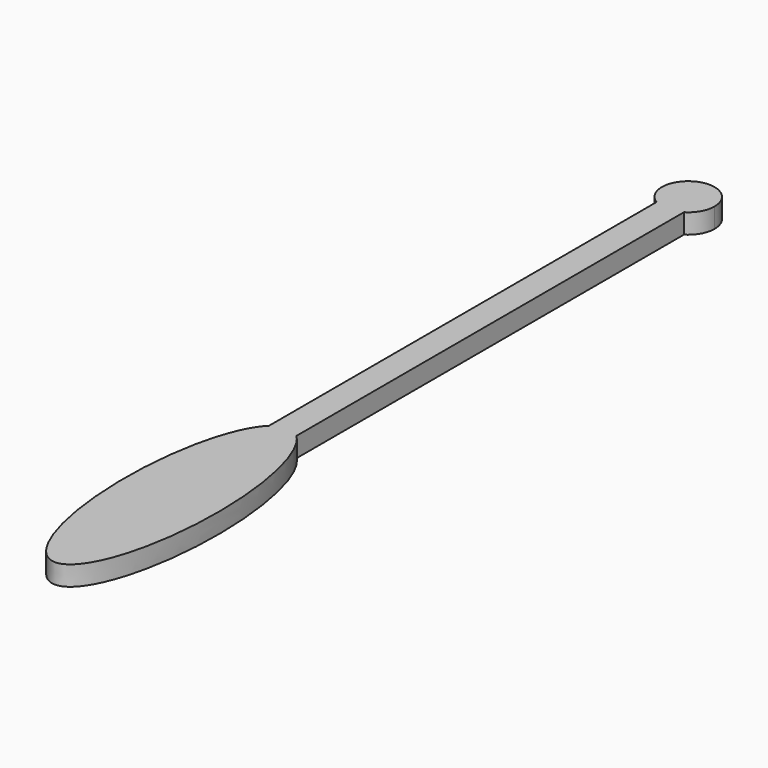
from build123d import *

# Parameters (mm, degrees)
F1_DEPTH = 2.54


with BuildPart() as f1:
    # F0 (on Top) → F1 (new body)
    with BuildSketch(Plane.XY):
        with BuildLine():
            add(Edge.make_bspline(
                [(-24.2210309952, -19.697351149), (-25.9833224118, -18.003063926), (-27.7456138283, -19.697351149)],
                knots=[2.8429434142, 2.8429434142, 2.8429434142, 3.440241893, 3.440241893, 3.440241893], degree=2, weights=[1, 0.9557347945, 1]))
            Line((-27.7456138283, -19.697351149), (-27.7456138283, -37.5741347671))
            Line((-27.7456138283, -37.5741347671), (-24.2210309952, -37.5741347671))
            Line((-24.2210309952, -37.5741347671), (-24.2210309952, -19.697351149))
        make_face()
        with BuildLine():
            Line((-27.7456138283, -37.5741347671), (-27.7456138283, -19.697351149))
            add(Edge.make_bspline(
                [(-27.7456138283, -19.697351149), (-32.6732165168, -24.4348050101), (-31.9061826661, -40.3568465731), (-31.1391488154, -56.2788881361), (-25.9833224118, -56.2788881361)],
                knots=[3.440241893, 3.440241893, 3.440241893, 4.8617136001, 4.8617136001, 6.2831853072, 6.2831853072, 6.2831853072], degree=2, weights=[1, 0.7578820165, 1, 0.7578820165, 1]))
            add(Edge.make_bspline(
                [(-25.9833224118, -56.2788881361), (-20.8274960082, -56.2788881361), (-20.0604621575, -40.3568465731), (-19.2934283067, -24.4348050101), (-24.2210309952, -19.697351149)],
                knots=[0, 0, 0, 1.4214717071, 1.4214717071, 2.8429434142, 2.8429434142, 2.8429434142], degree=2, weights=[1, 0.7578820165, 1, 0.7578820165, 1]))
            Line((-24.2210309952, -19.697351149), (-24.2210309952, -37.5741347671))
            Line((-24.2210309952, -37.5741347671), (-27.7456138283, -37.5741347671))
        make_face()
        with BuildLine():
            ThreePointArc((-24.2210309952, 42.5865615958), (-25.9833224118, 42.0921643427), (-27.7456138283, 42.5865615958))
            Line((-27.7456138283, 42.5865615958), (-27.7456138283, -19.697351149))
            add(Edge.make_bspline(
                [(-24.2210309952, -19.697351149), (-25.9833224118, -18.003063926), (-27.7456138283, -19.697351149)],
                knots=[2.8429434142, 2.8429434142, 2.8429434142, 3.440241893, 3.440241893, 3.440241893], degree=2, weights=[1, 0.9557347945, 1]))
            Line((-24.2210309952, -19.697351149), (-24.2210309952, 42.5865615958))
        make_face()
        with BuildLine():
            Line((-27.7456138283, 42.5865615958), (-27.7456138283, 45.4802289605))
            Line((-27.7456138283, 45.4802289605), (-24.2210309952, 45.4802289605))
            Line((-24.2210309952, 45.4802289605), (-24.2210309952, 42.5865615958))
            ThreePointArc((-24.2210309952, 42.5865615958), (-23.0295334002, 43.8206771144), (-22.5952577939, 45.4802289605))
            ThreePointArc((-22.5952577939, 45.4802289605), (-27.6428742579, 48.434017972), (-27.7456138283, 42.5865615958))
        make_face()
        with BuildLine():
            Line((-24.2210309952, 45.4802289605), (-27.7456138283, 45.4802289605))
            Line((-27.7456138283, 45.4802289605), (-27.7456138283, 42.5865615958))
            ThreePointArc((-27.7456138283, 42.5865615958), (-25.9833224118, 42.0921643427), (-24.2210309952, 42.5865615958))
            Line((-24.2210309952, 42.5865615958), (-24.2210309952, 45.4802289605))
        make_face()
    extrude(amount=F1_DEPTH)


solid = f1.part
